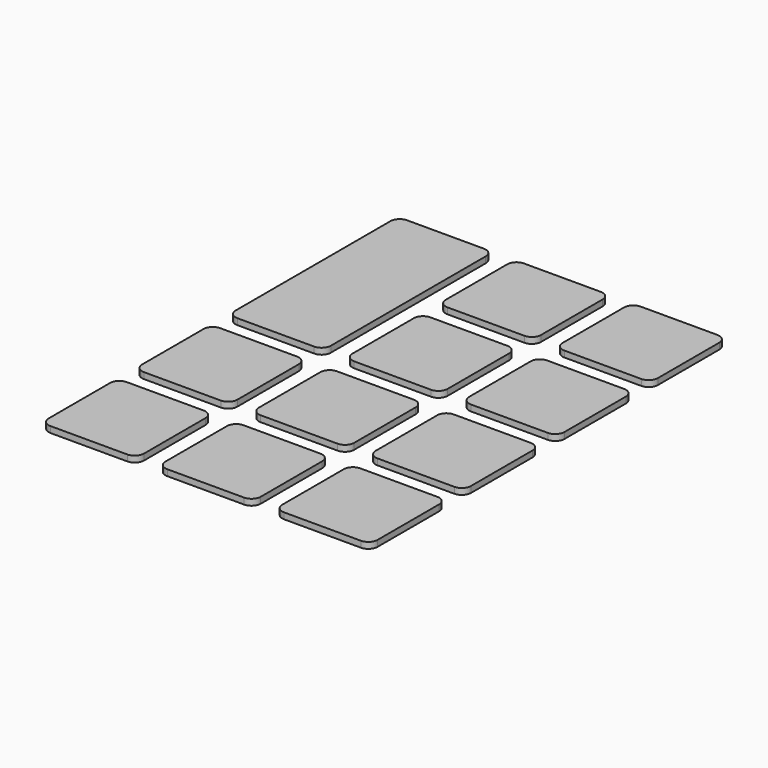
from build123d import *

# Parameters (mm, degrees)
F1_DEPTH = 1


with BuildPart() as f1:
    # F0 (on Top) → F1 (new body)
    with BuildSketch(Plane.XY):
        with BuildLine():
            Line((15.75, 17.25), (3.25, 17.25))
            ThreePointArc((3.25, 17.25), (2.18934, 16.81066), (1.75, 15.75))
            Line((1.75, 15.75), (1.75, 3.25))
            ThreePointArc((1.75, 3.25), (2.18934, 2.18934), (3.25, 1.75))
            Line((3.25, 1.75), (15.75, 1.75))
            ThreePointArc((15.75, 1.75), (16.81066, 2.18934), (17.25, 3.25))
            Line((17.25, 3.25), (17.25, 15.75))
            ThreePointArc((17.25, 15.75), (16.81066, 16.81066), (15.75, 17.25))
        make_face()
        with BuildLine():
            Line((17.25, 22.25), (17.25, 34.75))
            ThreePointArc((17.25, 34.75), (16.81066, 35.81066), (15.75, 36.25))
            Line((15.75, 36.25), (3.25, 36.25))
            ThreePointArc((3.25, 36.25), (2.18934, 35.81066), (1.75, 34.75))
            Line((1.75, 34.75), (1.75, 22.25))
            ThreePointArc((1.75, 22.25), (2.18934, 21.18934), (3.25, 20.75))
            Line((3.25, 20.75), (15.75, 20.75))
            ThreePointArc((15.75, 20.75), (16.81066, 21.18934), (17.25, 22.25))
        make_face()
        with BuildLine():
            Line((3.25, 39.75), (15.75, 39.75))
            ThreePointArc((15.75, 39.75), (16.81066, 40.18934), (17.25, 41.25))
            Line((17.25, 41.25), (17.25, 53.75))
            Line((17.25, 53.75), (17.25, 60.25))
            Line((17.25, 60.25), (17.25, 72.75))
            ThreePointArc((17.25, 72.75), (16.81066, 73.81066), (15.75, 74.25))
            Line((15.75, 74.25), (3.25, 74.25))
            ThreePointArc((3.25, 74.25), (2.18934, 73.81066), (1.75, 72.75))
            Line((1.75, 72.75), (1.75, 60.25))
            Line((1.75, 60.25), (1.75, 53.75))
            Line((1.75, 53.75), (1.75, 41.25))
            ThreePointArc((1.75, 41.25), (2.18934, 40.18934), (3.25, 39.75))
        make_face()
        with BuildLine():
            Line((36.25, 3.25), (36.25, 15.75))
            ThreePointArc((36.25, 15.75), (35.81066, 16.81066), (34.75, 17.25))
            Line((34.75, 17.25), (22.25, 17.25))
            ThreePointArc((22.25, 17.25), (21.18934, 16.81066), (20.75, 15.75))
            Line((20.75, 15.75), (20.75, 3.25))
            ThreePointArc((20.75, 3.25), (21.18934, 2.18934), (22.25, 1.75))
            Line((22.25, 1.75), (34.75, 1.75))
            ThreePointArc((34.75, 1.75), (35.81066, 2.18934), (36.25, 3.25))
        make_face()
        with BuildLine():
            Line((36.25, 22.25), (36.25, 34.75))
            ThreePointArc((36.25, 34.75), (35.81066, 35.81066), (34.75, 36.25))
            Line((34.75, 36.25), (22.25, 36.25))
            ThreePointArc((22.25, 36.25), (21.18934, 35.81066), (20.75, 34.75))
            Line((20.75, 34.75), (20.75, 22.25))
            ThreePointArc((20.75, 22.25), (21.18934, 21.18934), (22.25, 20.75))
            Line((22.25, 20.75), (34.75, 20.75))
            ThreePointArc((34.75, 20.75), (35.81066, 21.18934), (36.25, 22.25))
        make_face()
        with BuildLine():
            Line((36.25, 41.25), (36.25, 53.75))
            ThreePointArc((36.25, 53.75), (35.81066, 54.81066), (34.75, 55.25))
            Line((34.75, 55.25), (22.25, 55.25))
            ThreePointArc((22.25, 55.25), (21.18934, 54.81066), (20.75, 53.75))
            Line((20.75, 53.75), (20.75, 41.25))
            ThreePointArc((20.75, 41.25), (21.18934, 40.18934), (22.25, 39.75))
            Line((22.25, 39.75), (34.75, 39.75))
            ThreePointArc((34.75, 39.75), (35.81066, 40.18934), (36.25, 41.25))
        make_face()
        with BuildLine():
            Line((36.25, 60.25), (36.25, 72.75))
            ThreePointArc((36.25, 72.75), (35.81066, 73.81066), (34.75, 74.25))
            Line((34.75, 74.25), (22.25, 74.25))
            ThreePointArc((22.25, 74.25), (21.18934, 73.81066), (20.75, 72.75))
            Line((20.75, 72.75), (20.75, 60.25))
            ThreePointArc((20.75, 60.25), (21.18934, 59.18934), (22.25, 58.75))
            Line((22.25, 58.75), (34.75, 58.75))
            ThreePointArc((34.75, 58.75), (35.81066, 59.18934), (36.25, 60.25))
        make_face()
        with BuildLine():
            Line((55.25, 3.25), (55.25, 15.75))
            ThreePointArc((55.25, 15.75), (54.81066, 16.81066), (53.75, 17.25))
            Line((53.75, 17.25), (41.25, 17.25))
            ThreePointArc((41.25, 17.25), (40.18934, 16.81066), (39.75, 15.75))
            Line((39.75, 15.75), (39.75, 3.25))
            ThreePointArc((39.75, 3.25), (40.18934, 2.18934), (41.25, 1.75))
            Line((41.25, 1.75), (53.75, 1.75))
            ThreePointArc((53.75, 1.75), (54.81066, 2.18934), (55.25, 3.25))
        make_face()
        with BuildLine():
            Line((55.25, 22.25), (55.25, 34.75))
            ThreePointArc((55.25, 34.75), (54.81066, 35.81066), (53.75, 36.25))
            Line((53.75, 36.25), (41.25, 36.25))
            ThreePointArc((41.25, 36.25), (40.18934, 35.81066), (39.75, 34.75))
            Line((39.75, 34.75), (39.75, 22.25))
            ThreePointArc((39.75, 22.25), (40.18934, 21.18934), (41.25, 20.75))
            Line((41.25, 20.75), (53.75, 20.75))
            ThreePointArc((53.75, 20.75), (54.81066, 21.18934), (55.25, 22.25))
        make_face()
        with BuildLine():
            Line((55.25, 41.25), (55.25, 53.75))
            ThreePointArc((55.25, 53.75), (54.81066, 54.81066), (53.75, 55.25))
            Line((53.75, 55.25), (41.25, 55.25))
            ThreePointArc((41.25, 55.25), (40.18934, 54.81066), (39.75, 53.75))
            Line((39.75, 53.75), (39.75, 41.25))
            ThreePointArc((39.75, 41.25), (40.18934, 40.18934), (41.25, 39.75))
            Line((41.25, 39.75), (53.75, 39.75))
            ThreePointArc((53.75, 39.75), (54.81066, 40.18934), (55.25, 41.25))
        make_face()
        with BuildLine():
            Line((55.25, 60.25), (55.25, 72.75))
            ThreePointArc((55.25, 72.75), (54.81066, 73.81066), (53.75, 74.25))
            Line((53.75, 74.25), (41.25, 74.25))
            ThreePointArc((41.25, 74.25), (40.18934, 73.81066), (39.75, 72.75))
            Line((39.75, 72.75), (39.75, 60.25))
            ThreePointArc((39.75, 60.25), (40.18934, 59.18934), (41.25, 58.75))
            Line((41.25, 58.75), (53.75, 58.75))
            ThreePointArc((53.75, 58.75), (54.81066, 59.18934), (55.25, 60.25))
        make_face()
    extrude(amount=F1_DEPTH)


solid = f1.part
